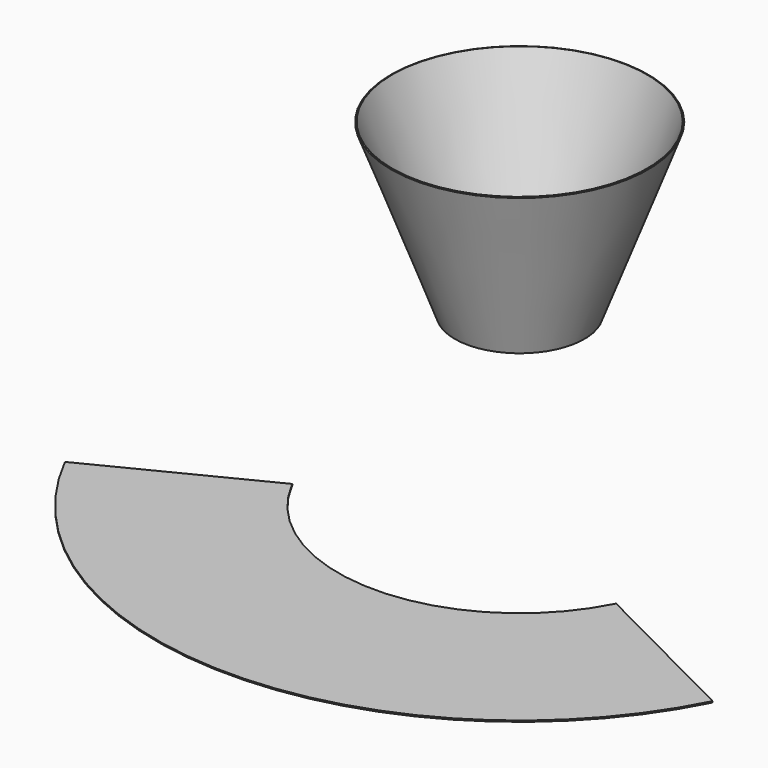
from build123d import *

# Parameters (mm, degrees)
PAD_DEPTH = 3


with BuildPart() as body:
    # Sketch → Revolution (revolve)
    with BuildSketch(Plane.XZ):
        Polygon((-300, 800), (-150, 400), (-152.808988, 398.94663), (-302.808988, 798.94663), align=None)
    revolve(axis=Axis((0, 0, 0), (0, 0, 1)))


with BuildPart() as body001:
    # Sketch001 → Pad (new body)
    with BuildSketch(Plane.XY):
        with BuildLine():
            ThreePointArc((-381.32029, -192.600199), (0, -427.200187), (381.32029, -192.600199))
            Line((381.32029, -192.600199), (762.64058, -385.200397))
            ThreePointArc((-762.64058, -385.200397), (0, -854.400375), (762.64058, -385.200397))
            Line((-762.64058, -385.200397), (-381.32029, -192.600199))
        make_face()
    extrude(amount=PAD_DEPTH)


solid = Compound([body.part, body001.part])
